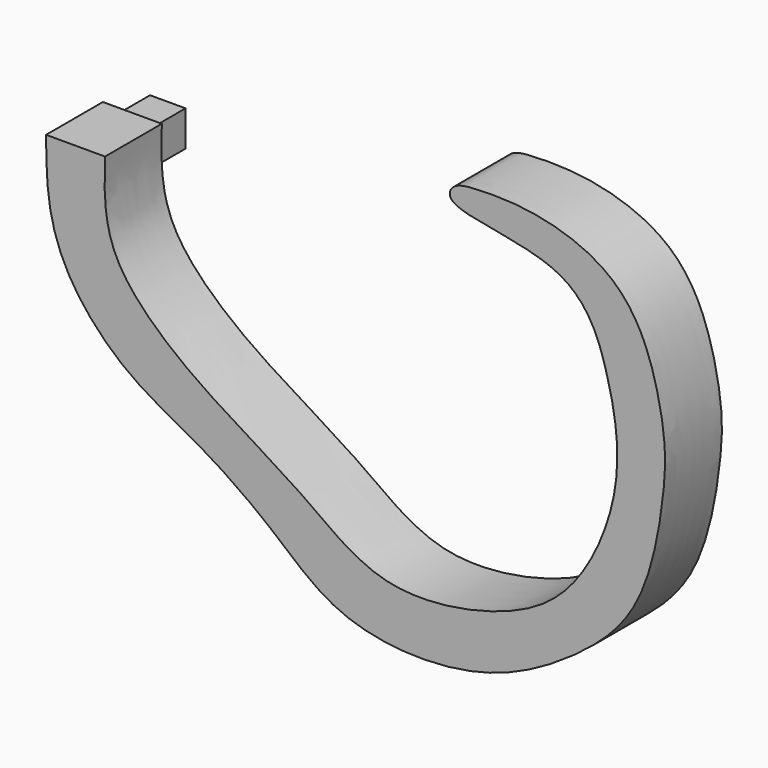
from build123d import *

# Parameters (mm, degrees)
F1_DEPTH = 10
F2_W     = 5
F2_H     = 5
F3_DEPTH = 6


with BuildPart() as f1:
    # F0 (on Front) → F1 (new body)
    with BuildSketch(Plane.XZ):
        with BuildLine():
            Line((-35.5777555258, 27.1078141265), (-43.8756307894, 27.1078141265))
            add(Edge.make_bspline(
                [(-35.5777555258, 27.1078141265), (-35.6353155353, 25.4617101246), (-35.7501015248, 21.8873666155), (-34.6408716405, 14.3462654854), (-26.7253310249, 6.1709475255), (-17.1043735502, -0.0702874327), (-6.6268193939, -6.282151859), (3.7460945051, -14.8340466928), (21.867801615, -11.7167464957), (31.6269852574, -4.6658728819), (37.721195569, 9.8728824466), (35.5534109153, 23.2517038408), (30.6265268195, 35.7601546812), (12.3475517381, 35.9566028016), (13.1606868009, 39.8546840928), (17.869401804, 40.2179530801), (25.4066668648, 40.0286652757), (34.9730383678, 36.8476460655), (40.8941121677, 29.7032808917), (43.5069194659, 18.1008291278), (43.2673625551, 10.9340710068), (40.7206453071, -4.6006973465), (30.6274667076, -13.7717789758), (16.8319182993, -21.442891817), (-2.4299554997, -20.5592849215), (-11.6923064765, -11.4142254823), (-22.2504483972, -4.0707815119), (-32.6364638894, 0.7498862662), (-40.7680247245, 9.5642287048), (-43.8197271295, 18.2403951507), (-43.8527674087, 24.2241231082), (-43.8756307894, 27.1078141265)],
                knots=[0, 0, 0, 0, 0.0237534537, 0.052019596, 0.0868961157, 0.1228084785, 0.1593947131, 0.1970819497, 0.2403168708, 0.2765370647, 0.3168362409, 0.3554082012, 0.3924137611, 0.4334323764, 0.4471100412, 0.4684204549, 0.4978905608, 0.5306764375, 0.5623353993, 0.5976118289, 0.6264558265, 0.666815039, 0.7051623281, 0.7466995685, 0.7912151554, 0.8285953562, 0.8659755546, 0.9016742649, 0.9374225162, 0.9689539184, 1, 1, 1, 1], degree=3))
        make_face()
    extrude(amount=F1_DEPTH)

    # F2 (on face) → F3 (join)
    with BuildSketch(Plane(origin=(0, 0, 0), x_dir=(-1, 0, 0), z_dir=(0, 1, 0))):
        with Locations((39.5348519087, 23.6078141265)):
            Rectangle(F2_W, F2_H)
    extrude(amount=F3_DEPTH)


solid = f1.part
